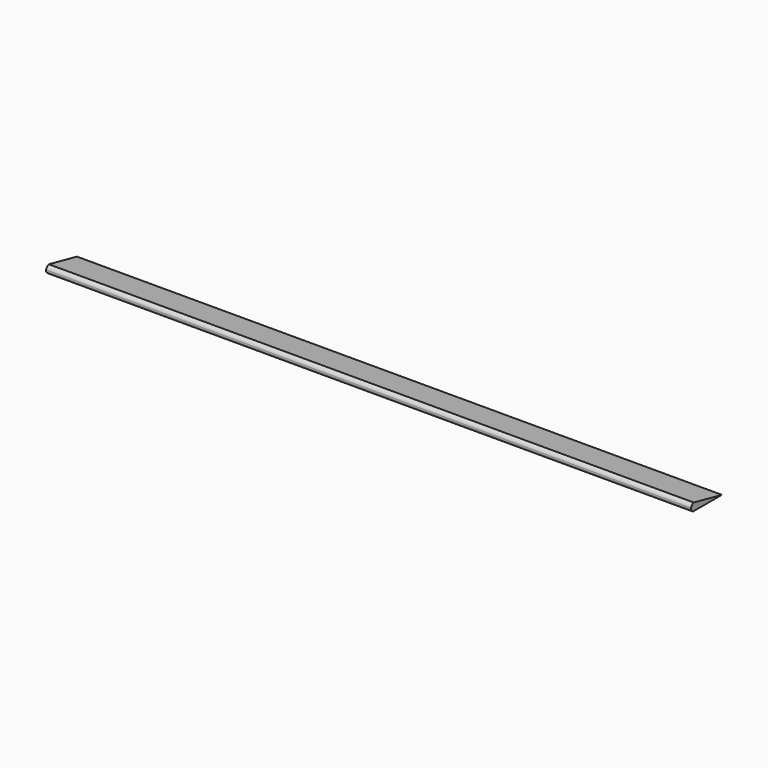
from build123d import *

# Parameters (mm, degrees)
F1_DEPTH = 1524


with BuildPart() as f1:
    # F0 (on Right) → F1 (new body)
    with BuildSketch(Plane.YZ):
        with BuildLine():
            ThreePointArc((-47.507718, 9.543046), (-45.813396, 2.91501), (-39.624348, 0))
            Line((-39.624348, 0), (43.565959, 0))
            Line((43.565959, 0), (-39.624348, 17.860208))
            ThreePointArc((-39.624348, 17.860208), (-44.781513, 14.853712), (-47.507718, 9.543046))
        make_face()
    extrude(amount=F1_DEPTH)


solid = f1.part
